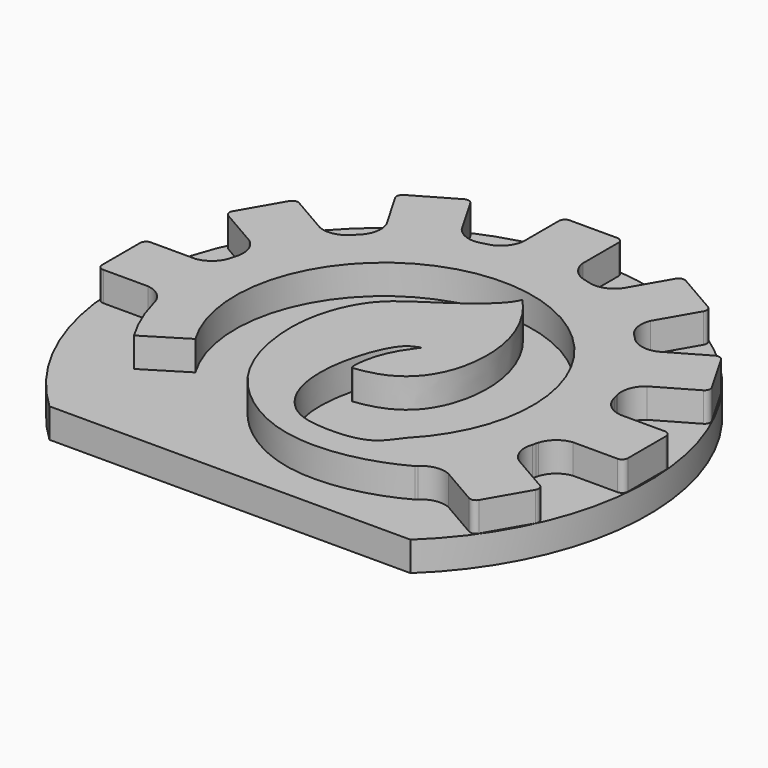
from build123d import *

# Parameters (mm, degrees)
F1_DEPTH = 25.4
F2_R     = 113.789637806
F3_DEPTH = 12.7
F5_DEPTH = 25.4


with BuildPart() as f1:
    # F0 (on Top) → F1 (new body)
    with BuildSketch(Plane.XY):
        with BuildLine():
            ThreePointArc((61.4266037097, -58.5840800084), (61.1030756038, -58.905516107), (60.7936997169, -59.2405954432))
            ThreePointArc((60.7936997169, -59.2405954432), (61.1110333373, -58.9131876423), (61.4266037097, -58.5840800084))
        make_face()
        with BuildLine():
            ThreePointArc((-82.2691860665, 20.9070107306), (-82.3803011428, 20.4648004475), (-82.489039285, 20.0219996898))
            ThreePointArc((-82.489039285, 20.0219996898), (-82.3695737757, 20.4621355699), (-82.2691860665, 20.9070107306))
        make_face()
        with BuildLine():
            ThreePointArc((-82.4010256294, -20.3811935115), (-82.2504811663, -20.980477155), (-82.0955783129, -21.5786490589))
            ThreePointArc((-82.0955783129, -21.5786490589), (-82.2308045664, -20.975458042), (-82.4010256294, -20.3811935115))
        make_face()
        with BuildLine():
            ThreePointArc((82.489039285, -20.0219996898), (82.3695737757, -20.4621355699), (82.2691860665, -20.9070107306))
            ThreePointArc((82.2691860665, -20.9070107306), (82.3803011428, -20.4648004475), (82.489039285, -20.0219996898))
        make_face()
        with BuildLine():
            ThreePointArc((81.4486033994, 23.9049592766), (81.5652111736, 23.4640576687), (81.7007104476, 23.0285906233))
            ThreePointArc((81.7007104476, 23.0285906233), (81.5758337848, 23.4671135004), (81.4486033994, 23.9049592766))
        make_face()
        with BuildLine():
            ThreePointArc((58.5840800084, 61.4266037097), (58.905516107, 61.1030756038), (59.2405954432, 60.7936997169))
            ThreePointArc((59.2405954432, 60.7936997169), (58.9131876423, 61.1110333373), (58.5840800084, 61.4266037097))
        make_face()
        with BuildLine():
            ThreePointArc((20.9070107306, 82.2691860665), (20.4648004475, 82.3803011428), (20.0219996898, 82.489039285))
            ThreePointArc((20.0219996898, 82.489039285), (20.4621355699, 82.3695737757), (20.9070107306, 82.2691860665))
        make_face()
        with BuildLine():
            ThreePointArc((-23.0285906233, 81.7007104476), (-23.4671135004, 81.5758337848), (-23.9049592766, 81.4486033994))
            ThreePointArc((-23.9049592766, 81.4486033994), (-23.4640576687, 81.5652111736), (-23.0285906233, 81.7007104476))
        make_face()
        with BuildLine():
            ThreePointArc((-60.7936997169, 59.2405954432), (-61.1110333373, 58.9131876423), (-61.4266037097, 58.5840800084))
            ThreePointArc((-61.4266037097, 58.5840800084), (-61.1030756038, 58.905516107), (-60.7936997169, 59.2405954432))
        make_face()
        with BuildLine():
            ThreePointArc((-54.8613470089, -33.1026693324), (7.3832938954, 63.6477893081), (45.8264610265, -44.7826928885))
            add(Edge.make_bspline(
                [(45.8264610265, -44.7826928885), (43.0354699492, -48.3195669949), (38.4404065229, -56.4720268223), (17.0736865165, -57.2418614564), (4.5695474869, -54.135872426), (-5.8842783896, -41.8087830011), (-8.5290151271, -18.4988896406), (0.8738468973, 7.8503881229), (7.4310276595, 8.9601885254), (8.7154489011, 9.7565790638)],
                knots=[0, 0, 0, 0, 0.1287214477, 0.2872862562, 0.4153521571, 0.550583205, 0.7262716008, 0.9096927063, 1, 1, 1, 1], degree=3))
            add(Edge.make_bspline(
                [(8.7154489011, 9.7565790638), (7.8615643377, 8.574272524), (4.4294752964, 4.0649665605), (-0.4689050971, -5.5140429194), (-1.6104867466, -17.3025736458), (0.0106569894, -16.4656298436), (0, -16.5324658155)],
                knots=[0, 0, 0, 0, 0.2561444818, 0.6152633089, 0.9265508773, 1, 1, 1, 1], degree=3))
            add(Edge.make_bspline(
                [(0, -16.5324658155), (2.9246552002, -16.1868315799), (13.6634492243, -14.4675846894), (31.7291556829, 1.7224677865), (31.4180329878, 38.4748009372), (13.2341030985, 57.9589270055)],
                knots=[0, 0, 0, 0, 0.2242033353, 0.5171161262, 1, 1, 1, 1], degree=3))
            add(Edge.make_bspline(
                [(13.2341030985, 57.9589270055), (11.2624405817, 52.009951251), (-7.7190956476, 37.8475608968), (-25.3034200362, 27.9435536958), (-35.0306849194, 7.0137771579), (-35.6907522159, -17.4472620385), (-25.8849284532, -47.7273743283), (12.1526162722, -74.513800628), (47.3349127645, -66.7116569886), (60.7936997169, -59.2405954432)],
                knots=[0, 0, 0, 0, 0.1369953784, 0.2580809016, 0.3776129038, 0.5051627785, 0.6487067823, 0.8189009705, 1, 1, 1, 1], degree=3))
            ThreePointArc((60.7936997169, -59.2405954432), (61.1030756038, -58.905516107), (61.4266037097, -58.5840800084))
            ThreePointArc((61.4266037097, -58.5840800084), (66.8577925336, -55.8335190649), (72.9056576556, -56.5311758642))
            Line((72.9056576556, -56.5311758642), (89.4885014525, -66.1052851942))
            ThreePointArc((89.4885014525, -66.1052851942), (91.415901827, -66.3590322674), (92.9582059781, -65.1755806686))
            Line((92.9582059781, -65.1755806686), (103.2033131151, -47.4305345782))
            ThreePointArc((103.2033131151, -47.4305345782), (103.4570601883, -45.5031342037), (102.2736085895, -43.9608300526))
            Line((102.2736085895, -43.9608300526), (85.6869885176, -34.3845404891))
            ThreePointArc((85.6869885176, -34.3845404891), (81.7994421958, -29.0004535487), (81.8861808868, -22.360130892))
            Line((81.8861808868, -22.360130892), (82.2691860665, -20.9070107306))
            ThreePointArc((82.2691860665, -20.9070107306), (82.3695737757, -20.4621355699), (82.489039285, -20.0219996898))
            ThreePointArc((82.489039285, -20.0219996898), (85.8173063075, -14.9243496261), (91.4037395415, -12.5046055764))
            Line((91.4037395415, -12.5046055764), (110.5519582015, -12.5046055764))
            ThreePointArc((110.5519582015, -12.5046055764), (112.3480094258, -11.7606568006), (113.0919582015, -9.9646055764))
            Line((113.0919582015, -9.9646055764), (113.0919582015, 10.5256086977))
            ThreePointArc((113.0919582015, 10.5256086977), (112.3480094258, 12.3216599219), (110.5519582015, 13.0656086977))
            Line((110.5519582015, 13.0656086977), (91.3993790746, 13.0656086977))
            ThreePointArc((91.3993790746, 13.0656086977), (85.3406217313, 15.7845916034), (82.0955783129, 21.5786490589))
            Line((82.0955783129, 21.5786490589), (81.7007104476, 23.0285906233))
            ThreePointArc((81.7007104476, 23.0285906233), (81.5652111736, 23.4640576687), (81.4486033994, 23.9049592766))
            ThreePointArc((81.4486033994, 23.9049592766), (81.7821421597, 29.9837872425), (85.410263232, 34.8725636773))
            Line((85.410263232, 34.8725636773), (101.9931070289, 44.4466730073))
            ThreePointArc((101.9931070289, 44.4466730073), (103.1765586276, 45.9889771584), (102.9228115545, 47.9163775329))
            Line((102.9228115545, 47.9163775329), (92.6777044174, 65.6614236233))
            ThreePointArc((92.6777044174, 65.6614236233), (91.1354002664, 66.8448752221), (89.2079998918, 66.5911281489))
            Line((89.2079998918, 66.5911281489), (72.6213798198, 57.0148385854))
            ThreePointArc((72.6213798198, 57.0148385854), (66.0148505924, 56.3401681826), (60.3075318279, 59.7354474208))
            Line((60.3075318279, 59.7354474208), (59.2405954432, 60.7936997169))
            ThreePointArc((59.2405954432, 60.7936997169), (58.905516107, 61.1030756038), (58.5840800084, 61.4266037097))
            ThreePointArc((58.5840800084, 61.4266037097), (55.8335190649, 66.8577925336), (56.5311758642, 72.9056576556))
            Line((56.5311758642, 72.9056576556), (66.1052851942, 89.4885014525))
            ThreePointArc((66.1052851942, 89.4885014525), (66.3590322674, 91.415901827), (65.1755806686, 92.9582059781))
            Line((65.1755806686, 92.9582059781), (47.4305345782, 103.2033131151))
            ThreePointArc((47.4305345782, 103.2033131151), (45.5031342037, 103.4570601883), (43.9608300526, 102.2736085895))
            Line((43.9608300526, 102.2736085895), (34.3845404891, 85.6869885176))
            ThreePointArc((34.3845404891, 85.6869885176), (29.0004535487, 81.7994421958), (22.360130892, 81.8861808868))
            Line((22.360130892, 81.8861808868), (20.9070107306, 82.2691860665))
            ThreePointArc((20.9070107306, 82.2691860665), (20.4621355699, 82.3695737757), (20.0219996898, 82.489039285))
            ThreePointArc((20.0219996898, 82.489039285), (14.9243496261, 85.8173063075), (12.5046055764, 91.4037395415))
            Line((12.5046055764, 91.4037395415), (12.5046055764, 110.5519582015))
            ThreePointArc((12.5046055764, 110.5519582015), (11.7606568006, 112.3480094258), (9.9646055764, 113.0919582015))
            Line((9.9646055764, 113.0919582015), (-10.5256086977, 113.0919582015))
            ThreePointArc((-10.5256086977, 113.0919582015), (-12.3216599219, 112.3480094258), (-13.0656086977, 110.5519582015))
            Line((-13.0656086977, 110.5519582015), (-13.0656086977, 91.3993790746))
            ThreePointArc((-13.0656086977, 91.3993790746), (-15.7845916034, 85.3406217313), (-21.5786490589, 82.0955783129))
            Line((-21.5786490589, 82.0955783129), (-23.0285906233, 81.7007104476))
            ThreePointArc((-23.0285906233, 81.7007104476), (-23.4640576687, 81.5652111736), (-23.9049592766, 81.4486033994))
            ThreePointArc((-23.9049592766, 81.4486033994), (-29.9837872425, 81.7821421597), (-34.8725636773, 85.410263232))
            Line((-34.8725636773, 85.410263232), (-44.4466730073, 101.9931070289))
            ThreePointArc((-44.4466730073, 101.9931070289), (-45.9889771584, 103.1765586276), (-47.9163775329, 102.9228115545))
            Line((-47.9163775329, 102.9228115545), (-65.6614236233, 92.6777044174))
            ThreePointArc((-65.6614236233, 92.6777044174), (-66.8448752221, 91.1354002664), (-66.5911281489, 89.2079998918))
            Line((-66.5911281489, 89.2079998918), (-57.0148385854, 72.6213798198))
            ThreePointArc((-57.0148385854, 72.6213798198), (-56.3401681826, 66.0148505924), (-59.7354474208, 60.3075318279))
            Line((-59.7354474208, 60.3075318279), (-60.7936997169, 59.2405954432))
            ThreePointArc((-60.7936997169, 59.2405954432), (-61.1030756038, 58.905516107), (-61.4266037097, 58.5840800084))
            ThreePointArc((-61.4266037097, 58.5840800084), (-66.8577925336, 55.8335190649), (-72.9056576556, 56.5311758642))
            Line((-72.9056576556, 56.5311758642), (-89.4885014525, 66.1052851942))
            ThreePointArc((-89.4885014525, 66.1052851942), (-91.415901827, 66.3590322674), (-92.9582059781, 65.1755806686))
            Line((-92.9582059781, 65.1755806686), (-103.2033131151, 47.4305345782))
            ThreePointArc((-103.2033131151, 47.4305345782), (-103.4570601883, 45.5031342037), (-102.2736085895, 43.9608300526))
            Line((-102.2736085895, 43.9608300526), (-85.6869885176, 34.3845404891))
            ThreePointArc((-85.6869885176, 34.3845404891), (-81.7994421958, 29.0004535487), (-81.8861808868, 22.360130892))
            Line((-81.8861808868, 22.360130892), (-82.2691860665, 20.9070107306))
            ThreePointArc((-82.2691860665, 20.9070107306), (-82.3695737757, 20.4621355699), (-82.489039285, 20.0219996898))
            ThreePointArc((-82.489039285, 20.0219996898), (-85.8173063075, 14.9243496261), (-91.4037395415, 12.5046055764))
            Line((-91.4037395415, 12.5046055764), (-110.5519582015, 12.5046055764))
            ThreePointArc((-110.5519582015, 12.5046055764), (-112.3480094258, 11.7606568006), (-113.0919582015, 9.9646055764))
            Line((-113.0919582015, 9.9646055764), (-113.0919582015, -10.5256086977))
            ThreePointArc((-113.0919582015, -10.5256086977), (-112.3480094258, -12.3216599219), (-110.5519582015, -13.0656086977))
            Line((-110.5519582015, -13.0656086977), (-91.3993790746, -13.0656086977))
            ThreePointArc((-91.3993790746, -13.0656086977), (-85.8086754431, -15.3807955343), (-82.4010256294, -20.3811935115))
            ThreePointArc((-82.4010256294, -20.3811935115), (-82.2308045664, -20.975458042), (-82.0955783129, -21.5786490589))
            ThreePointArc((-82.0955783129, -21.5786490589), (-78.145063043, -33.146209372), (-72.5740724866, -44.0264247519))
            Line((-72.5740724866, -44.0264247519), (-54.8613470089, -33.1026693324))
        make_face()
    extrude(amount=F1_DEPTH)


with BuildPart() as f3:
    # F2 (on face) → F3 (new body)
    with BuildSketch(Plane(origin=(0, 0, 0), x_dir=(1, 0, 0), z_dir=(0, 0, -1))):
        Circle(F2_R)
        with BuildLine():
            ThreePointArc((60.7936997169, 59.2405954432), (61.1110333373, 58.9131876423), (61.4266037097, 58.5840800084))
            ThreePointArc((61.4266037097, 58.5840800084), (66.8577925336, 55.8335190649), (72.9056576556, 56.5311758642))
            Line((72.9056576556, 56.5311758642), (89.4885014525, 66.1052851942))
            ThreePointArc((89.4885014525, 66.1052851942), (91.415901827, 66.3590322674), (92.9582059781, 65.1755806686))
            Line((92.9582059781, 65.1755806686), (103.2033131151, 47.4305345782))
            ThreePointArc((103.2033131151, 47.4305345782), (103.4570601883, 45.5031342037), (102.2736085895, 43.9608300526))
            Line((102.2736085895, 43.9608300526), (85.6869885176, 34.3845404891))
            ThreePointArc((85.6869885176, 34.3845404891), (81.7994421958, 29.0004535487), (81.8861808868, 22.360130892))
            Line((81.8861808868, 22.360130892), (82.2691860665, 20.9070107306))
            ThreePointArc((82.2691860665, 20.9070107306), (82.3803011428, 20.4648004475), (82.489039285, 20.0219996898))
            ThreePointArc((82.489039285, 20.0219996898), (85.8173063075, 14.9243496261), (91.4037395415, 12.5046055764))
            Line((91.4037395415, 12.5046055764), (110.5519582015, 12.5046055764))
            ThreePointArc((110.5519582015, 12.5046055764), (112.3480094258, 11.7606568006), (113.0919582015, 9.9646055764))
            Line((113.0919582015, 9.9646055764), (113.0919582015, -10.5256086977))
            ThreePointArc((113.0919582015, -10.5256086977), (112.3480094258, -12.3216599219), (110.5519582015, -13.0656086977))
            Line((110.5519582015, -13.0656086977), (91.3993790746, -13.0656086977))
            ThreePointArc((91.3993790746, -13.0656086977), (85.3406217313, -15.7845916034), (82.0955783129, -21.5786490589))
            Line((82.0955783129, -21.5786490589), (81.7007104476, -23.0285906233))
            ThreePointArc((81.7007104476, -23.0285906233), (81.5758337848, -23.4671135004), (81.4486033994, -23.9049592766))
            ThreePointArc((81.4486033994, -23.9049592766), (81.7821421597, -29.9837872425), (85.410263232, -34.8725636773))
            Line((85.410263232, -34.8725636773), (101.9931070289, -44.4466730073))
            ThreePointArc((101.9931070289, -44.4466730073), (103.1765586276, -45.9889771584), (102.9228115545, -47.9163775329))
            Line((102.9228115545, -47.9163775329), (92.6777044174, -65.6614236233))
            ThreePointArc((92.6777044174, -65.6614236233), (91.1354002664, -66.8448752221), (89.2079998918, -66.5911281489))
            Line((89.2079998918, -66.5911281489), (72.6213798198, -57.0148385854))
            ThreePointArc((72.6213798198, -57.0148385854), (66.0148505924, -56.3401681826), (60.3075318279, -59.7354474208))
            Line((60.3075318279, -59.7354474208), (59.2405954432, -60.7936997169))
            ThreePointArc((59.2405954432, -60.7936997169), (58.9131876423, -61.1110333373), (58.5840800084, -61.4266037097))
            ThreePointArc((58.5840800084, -61.4266037097), (55.8335190649, -66.8577925336), (56.5311758642, -72.9056576556))
            Line((56.5311758642, -72.9056576556), (66.1052851942, -89.4885014525))
            ThreePointArc((66.1052851942, -89.4885014525), (66.3590322674, -91.415901827), (65.1755806686, -92.9582059781))
            Line((65.1755806686, -92.9582059781), (47.4305345782, -103.2033131151))
            ThreePointArc((47.4305345782, -103.2033131151), (45.5031342037, -103.4570601883), (43.9608300526, -102.2736085895))
            Line((43.9608300526, -102.2736085895), (34.3845404891, -85.6869885176))
            ThreePointArc((34.3845404891, -85.6869885176), (29.0004535487, -81.7994421958), (22.360130892, -81.8861808868))
            Line((22.360130892, -81.8861808868), (20.9070107306, -82.2691860665))
            ThreePointArc((20.9070107306, -82.2691860665), (20.4648004475, -82.3803011428), (20.0219996898, -82.489039285))
            ThreePointArc((20.0219996898, -82.489039285), (14.9243496261, -85.8173063075), (12.5046055764, -91.4037395415))
            Line((12.5046055764, -91.4037395415), (12.5046055764, -110.5519582015))
            ThreePointArc((12.5046055764, -110.5519582015), (11.7606568006, -112.3480094258), (9.9646055764, -113.0919582015))
            Line((9.9646055764, -113.0919582015), (-10.5256086977, -113.0919582015))
            ThreePointArc((-10.5256086977, -113.0919582015), (-12.3216599219, -112.3480094258), (-13.0656086977, -110.5519582015))
            Line((-13.0656086977, -110.5519582015), (-13.0656086977, -91.3993790746))
            ThreePointArc((-13.0656086977, -91.3993790746), (-15.7845916034, -85.3406217313), (-21.5786490589, -82.0955783129))
            Line((-21.5786490589, -82.0955783129), (-23.0285906233, -81.7007104476))
            ThreePointArc((-23.0285906233, -81.7007104476), (-23.4671135004, -81.5758337848), (-23.9049592766, -81.4486033994))
            ThreePointArc((-23.9049592766, -81.4486033994), (-29.9837872425, -81.7821421597), (-34.8725636773, -85.410263232))
            Line((-34.8725636773, -85.410263232), (-44.4466730073, -101.9931070289))
            ThreePointArc((-44.4466730073, -101.9931070289), (-45.9889771584, -103.1765586276), (-47.9163775329, -102.9228115545))
            Line((-47.9163775329, -102.9228115545), (-65.6614236233, -92.6777044174))
            ThreePointArc((-65.6614236233, -92.6777044174), (-66.8448752221, -91.1354002664), (-66.5911281489, -89.2079998918))
            Line((-66.5911281489, -89.2079998918), (-57.0148385854, -72.6213798198))
            ThreePointArc((-57.0148385854, -72.6213798198), (-56.3401681826, -66.0148505924), (-59.7354474208, -60.3075318279))
            Line((-59.7354474208, -60.3075318279), (-60.7936997169, -59.2405954432))
            ThreePointArc((-60.7936997169, -59.2405954432), (-61.1110333373, -58.9131876423), (-61.4266037097, -58.5840800084))
            ThreePointArc((-61.4266037097, -58.5840800084), (-66.8577925336, -55.8335190649), (-72.9056576556, -56.5311758642))
            Line((-72.9056576556, -56.5311758642), (-89.4885014525, -66.1052851942))
            ThreePointArc((-89.4885014525, -66.1052851942), (-91.415901827, -66.3590322674), (-92.9582059781, -65.1755806686))
            Line((-92.9582059781, -65.1755806686), (-103.2033131151, -47.4305345782))
            ThreePointArc((-103.2033131151, -47.4305345782), (-103.4570601883, -45.5031342037), (-102.2736085895, -43.9608300526))
            Line((-102.2736085895, -43.9608300526), (-85.6869885176, -34.3845404891))
            ThreePointArc((-85.6869885176, -34.3845404891), (-81.7994421958, -29.0004535487), (-81.8861808868, -22.360130892))
            Line((-81.8861808868, -22.360130892), (-82.2691860665, -20.9070107306))
            ThreePointArc((-82.2691860665, -20.9070107306), (-82.3803011428, -20.4648004475), (-82.489039285, -20.0219996898))
            ThreePointArc((-82.489039285, -20.0219996898), (-85.8173063075, -14.9243496261), (-91.4037395415, -12.5046055764))
            Line((-91.4037395415, -12.5046055764), (-110.5519582015, -12.5046055764))
            ThreePointArc((-110.5519582015, -12.5046055764), (-112.3480094258, -11.7606568006), (-113.0919582015, -9.9646055764))
            Line((-113.0919582015, -9.9646055764), (-113.0919582015, 10.5256086977))
            ThreePointArc((-113.0919582015, 10.5256086977), (-112.3480094258, 12.3216599219), (-110.5519582015, 13.0656086977))
            Line((-110.5519582015, 13.0656086977), (-91.3993790746, 13.0656086977))
            ThreePointArc((-91.3993790746, 13.0656086977), (-85.8086754431, 15.3807955343), (-82.4010256294, 20.3811935115))
            ThreePointArc((-82.4010256294, 20.3811935115), (-78.3842745653, 32.5764880644), (-72.5740724866, 44.0264247519))
            Line((-72.5740724866, 44.0264247519), (-54.8613470089, 33.1026693324))
            ThreePointArc((-54.8613470089, 33.1026693324), (7.3832938954, -63.6477893081), (45.8264610265, 44.7826928885))
            add(Edge.make_bspline(
                [(45.8264610265, 44.7826928885), (43.0354699492, 48.3195669949), (38.4404065229, 56.4720268223), (17.0736865165, 57.2418614564), (4.5695474869, 54.135872426), (-5.8842783896, 41.8087830011), (-8.5290151271, 18.4988896406), (0.8738468973, -7.8503881229), (7.4310276595, -8.9601885254), (8.7154489011, -9.7565790638)],
                knots=[0, 0, 0, 0, 0.1287214477, 0.2872862562, 0.4153521571, 0.550583205, 0.7262716008, 0.9096927063, 1, 1, 1, 1], degree=3))
            add(Edge.make_bspline(
                [(8.7154489011, -9.7565790638), (7.8615643377, -8.574272524), (4.4294752964, -4.0649665605), (-0.4689050971, 5.5140429194), (-1.6104867466, 17.3025736458), (0.0106569894, 16.4656298436), (0, 16.5324658155)],
                knots=[0, 0, 0, 0, 0.2561444818, 0.6152633089, 0.9265508773, 1, 1, 1, 1], degree=3))
            add(Edge.make_bspline(
                [(0, 16.5324658155), (2.9246552002, 16.1868315799), (13.6634492243, 14.4675846894), (31.7291556829, -1.7224677865), (31.4180329878, -38.4748009372), (13.2341030985, -57.9589270055)],
                knots=[0, 0, 0, 0, 0.2242033353, 0.5171161262, 1, 1, 1, 1], degree=3))
            add(Edge.make_bspline(
                [(13.2341030985, -57.9589270055), (11.2624405817, -52.009951251), (-7.7190956476, -37.8475608968), (-25.3034200362, -27.9435536958), (-35.0306849194, -7.0137771579), (-35.6907522159, 17.4472620385), (-25.8849284532, 47.7273743283), (12.1526162722, 74.513800628), (47.3349127645, 66.7116569886), (60.7936997169, 59.2405954432)],
                knots=[0, 0, 0, 0, 0.1369953784, 0.2580809016, 0.3776129038, 0.5051627785, 0.6487067823, 0.8189009705, 1, 1, 1, 1], degree=3))
        make_face(mode=Mode.SUBTRACT)
    extrude(amount=-F3_DEPTH)

    # F4 (on face) → F5 (cut)
    with BuildSketch(Plane.XY.offset(12.7)):
        with BuildLine():
            Line((77.7772223404, -83.0589270158), (-77.7772223404, -83.0589270158))
            ThreePointArc((-77.7772223404, -83.0589270158), (0, -113.789637806), (77.7772223404, -83.0589270158))
        make_face()
    extrude(amount=-F5_DEPTH, mode=Mode.SUBTRACT)


solid = Compound([f1.part, f3.part])
